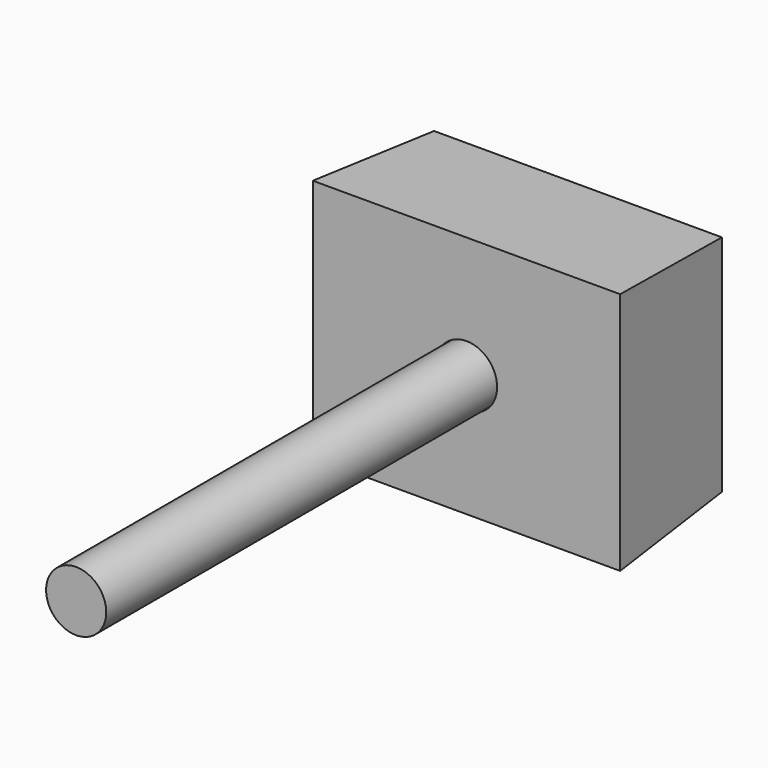
from build123d import *

# Parameters (mm, degrees)
F0_W     = 104.8979088664
F0_H     = 81.6691890359
F0_R     = 14.7212853351
F1_DEPTH = 50.8
F1_TAPER = -4
F2_R     = 10.9602017769
F3_DEPTH = 228.6


with BuildPart() as f1:
    # F0 (on Front) → F1 (new body)
    with BuildSketch(Plane.XZ):
        Rectangle(F0_W, F0_H)
        Circle(F0_R, mode=Mode.SUBTRACT)
    extrude(amount=F1_DEPTH, taper=F1_TAPER)


with BuildPart() as f3:
    # F2 (on face) → F3 (new body)
    with BuildSketch(Plane(origin=(0, 0, 0), x_dir=(-1, 0, 0), z_dir=(0, 1, 0))):
        Circle(F2_R)
    extrude(amount=-F3_DEPTH)


solid = Compound([f1.part, f3.part])
